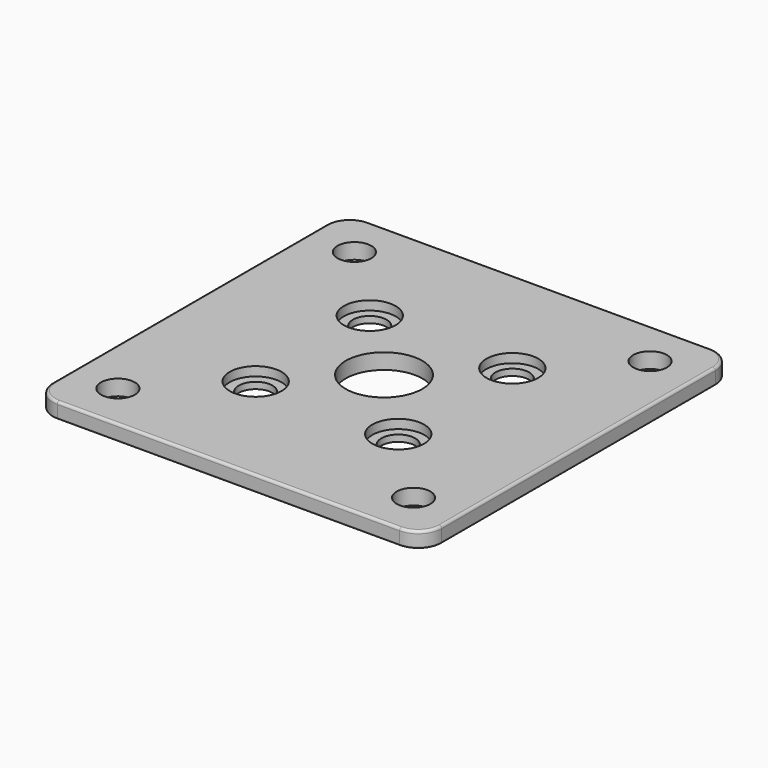
from build123d import *

# Parameters (mm, degrees)
F0_W           = 150
F0_H           = 150
F0_R           = 6.5
F0_R_2         = 14.75
F1_DEPTH       = 6
F2_R           = 9
F4_D           = 13
F4_CBORE_D     = 20
F4_CBORE_DEPTH = 3.5
F5_R           = 1
F6_R           = 0.5


with BuildPart() as f1:
    # F0 (on Top) → F1 (new body)
    with BuildSketch(Plane.XY):
        Rectangle(F0_W, F0_H)
        with Locations((-57, -57)):
            Circle(F0_R, mode=Mode.SUBTRACT)
        with Locations((57, -57)):
            Circle(F0_R, mode=Mode.SUBTRACT)
        with Locations((-57, 57)):
            Circle(F0_R, mode=Mode.SUBTRACT)
        Circle(F0_R_2, mode=Mode.SUBTRACT)
        with Locations((57, 57)):
            Circle(F0_R, mode=Mode.SUBTRACT)
    extrude(amount=F1_DEPTH)

    # F2
    f2_edges = [f1.edges().sort_by_distance(p)[0] for p in [
        (-75, -75, 3),
        (-75, 75, 3),
        (75, -75, 3),
        (75, 75, 3),
    ]]
    fillet(f2_edges, radius=F2_R)

    # F4 (through all)
    with Locations(Plane.XY.offset(6)):
        with Locations((-27.5, 27.5), (27.5, 27.5), (27.5, -27.5), (-27.5, -27.5)):
            CounterBoreHole(F4_D / 2, F4_CBORE_D / 2, F4_CBORE_DEPTH)

    # F5
    f5_edges = [f1.edges().sort_by_distance(p)[0] for p in [
        (-72.363961, 72.363961, 6),
        (0, 75, 6),
        (-75, 0, 6),
    ]]
    fillet(f5_edges, radius=F5_R)

    # F6
    f6_edges = [f1.edges().sort_by_distance(p)[0] for p in [
        (-75, 66, 2.5),
        (-75, 0, 5),
        (-75, 0, 0),
        (-75, -66, 2.5),
        (-66, -75, 2.5),
        (0, -75, 5),
        (0, -75, 0),
        (66, -75, 2.5),
    ]]
    fillet(f6_edges, radius=F6_R)


solid = f1.part
